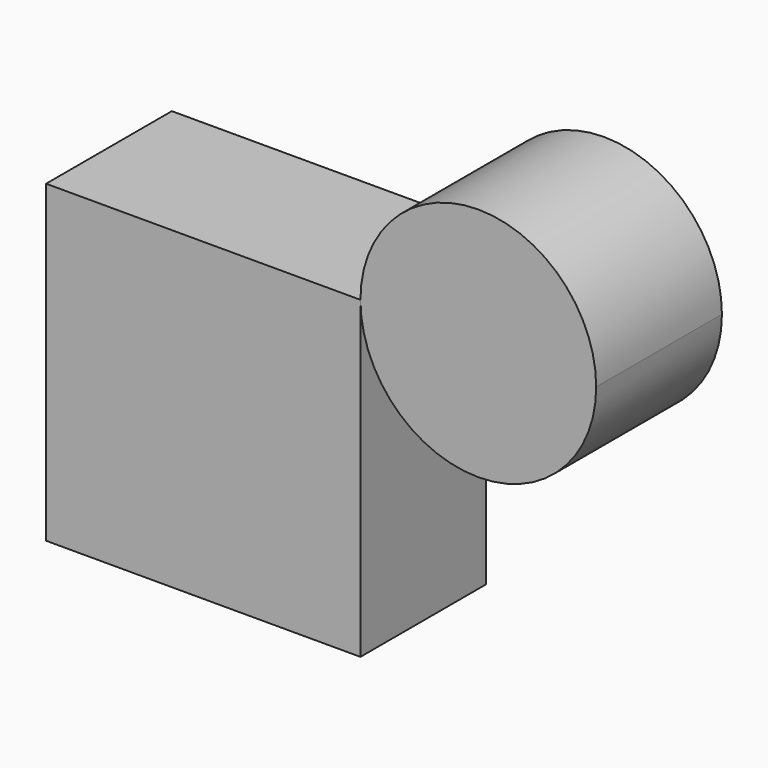
from build123d import *

# Parameters (mm, degrees)
F0_W     = 50.8
F0_H     = 50.8
F1_DEPTH = 25.4


with BuildPart() as f1:
    # F0 (on Front) → F1 (new body)
    with BuildSketch(Plane.XZ):
        with Locations((25.4, 25.4)):
            Rectangle(F0_W, F0_H)
    extrude(amount=F1_DEPTH)


with BuildPart() as f1b:
    # F0 (on Front) → F1, piece 2 (new body)
    with BuildSketch(Plane.XZ):
        with BuildLine():
            ThreePointArc((88.9, 50.8030205965), (69.8484897018, 69.8530205366), (50.8000002395, 50.8))
            ThreePointArc((50.8000002395, 50.8), (69.8515102982, 31.7530206564), (88.9, 50.8030205965))
        make_face()
    extrude(amount=F1_DEPTH)


solid = Compound([f1.part, f1b.part])
